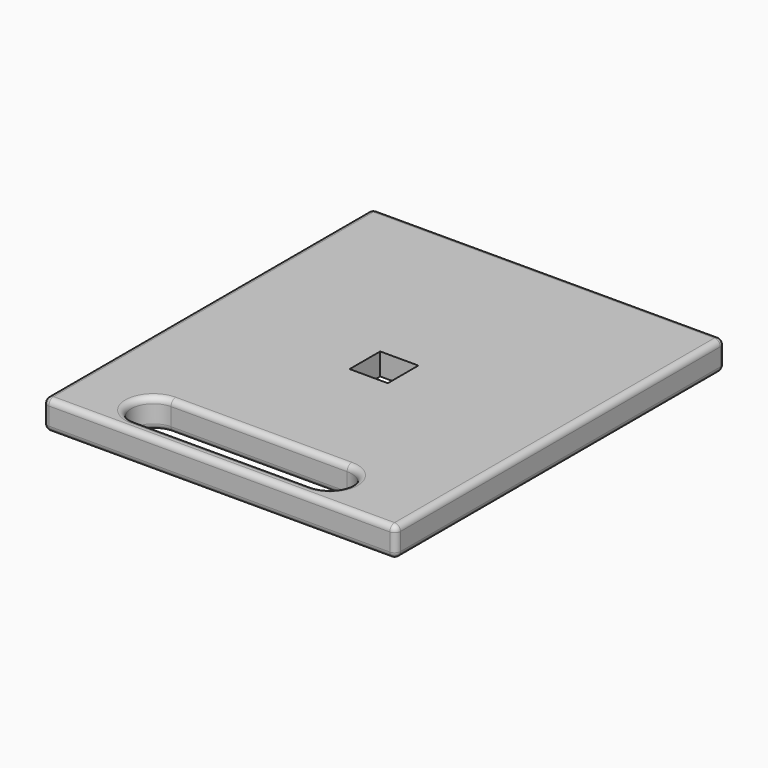
from build123d import *

# Parameters (mm, degrees)
F0_W     = 304.8
F0_H     = 355.6
F0_W_2   = 33.02
F0_H_2   = 33.02
F1_DEPTH = 25.4
F3_DEPTH = 25.401
F4_R     = 5.08
F5_W     = 104.775
F5_H     = 104.775
F6_DEPTH = 6.35
F7_R     = 5.08


with BuildPart() as f1:
    # F0 (on Top) → F1 (new body)
    with BuildSketch(Plane.XY):
        Rectangle(F0_W, F0_H)
        Rectangle(F0_W_2, F0_H_2, mode=Mode.SUBTRACT)
    extrude(amount=F1_DEPTH)

    # F2 (on face) → F3 (cut, through all)
    with BuildSketch(Plane.XY.offset(25.4)):
        with BuildLine():
            Line((69.737374, -127), (-82.430303, -127))
            ThreePointArc((-82.430303, -127), (-101.480303, -146.05), (-82.430303, -165.1))
            Line((-82.430303, -165.1), (69.737374, -165.1))
            ThreePointArc((69.737374, -165.1), (89.021114, -146.05), (69.737374, -127))
        make_face()
    extrude(amount=-F3_DEPTH, mode=Mode.SUBTRACT)

    # F4
    f4_edges = [f1.edges().sort_by_distance(p)[0] for p in [
        (0, -177.8, 25.4),
        (0, -177.8, 0),
        (152.4, 0, 25.4),
        (152.4, 0, 0),
        (-152.4, 0, 25.4),
        (-152.4, 0, 0),
        (0, 177.8, 0),
        (-6.346464, -127, 25.4),
        (-101.480303, -146.05, 25.4),
        (89.021114, -146.05, 25.4),
        (-6.346464, -165.1, 0),
        (89.021114, -146.05, 0),
        (0, 177.8, 25.4),
        (152.4, 177.8, 12.7),
        (-152.4, 177.8, 12.7),
        (-152.4, -177.8, 12.7),
        (152.4, -177.8, 12.7),
    ]]
    fillet(f4_edges, radius=F4_R)

    # F5 (on face) → F6 (cut)
    with BuildSketch(Plane(origin=(0, 0, 0), x_dir=(1, 0, 0), z_dir=(0, 0, -1))):
        Rectangle(F5_W, F5_H)
    extrude(amount=-F6_DEPTH, mode=Mode.SUBTRACT)

    # F7
    f7_edges = [f1.edges().sort_by_distance(p)[0] for p in [
        (-52.3875, -52.3875, 3.175),
        (52.3875, -52.3875, 3.175),
        (-52.3875, 52.3875, 3.175),
        (52.3875, 52.3875, 3.175),
    ]]
    fillet(f7_edges, radius=F7_R)


solid = f1.part
